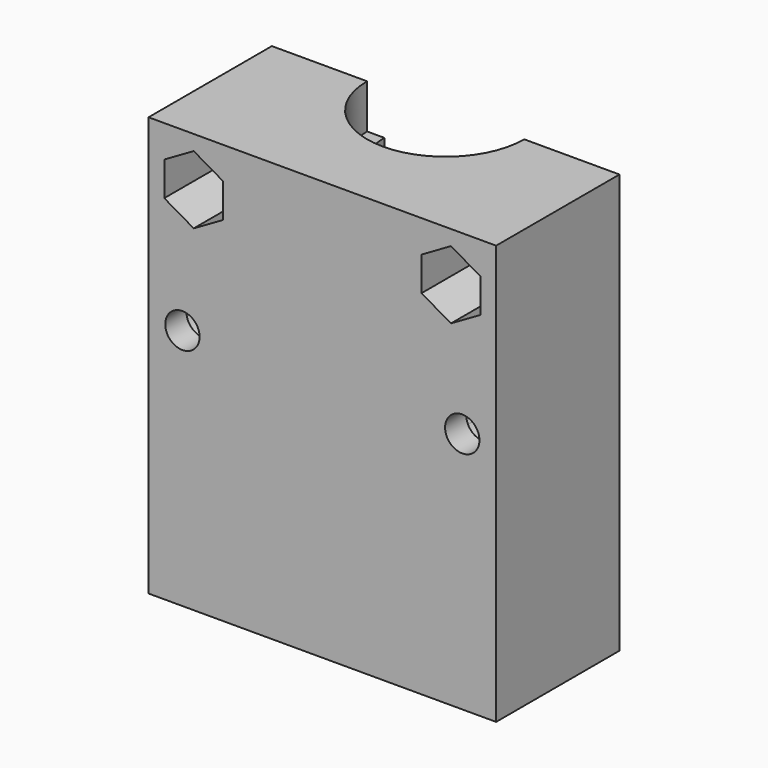
from build123d import *

# Parameters (mm, degrees)
F1_DEPTH  = 42.7
F3_DEPTH  = 4.5
F5_DEPTH  = 6
F6_R      = 8
F7_DEPTH  = 50
F8_R      = 11.7
F9_DEPTH  = 40
F10_R     = 1.75
F11_DEPTH = 25
F12_R     = 1.75
F13_DEPTH = 13
F14_R     = 1.75
F15_DEPTH = 13
F16_R     = 1.75
F17_DEPTH = 25
F18_R     = 1.75
F19_DEPTH = 7.5


with BuildPart() as f1:
    # F0 (on Top) → F1 (new body)
    with BuildSketch(Plane.XY):
        Polygon((0, 15.7), (0, 0), (35.4, 0), (35.4, 15.7), (23.2, 15.7), (7.2, 15.7), align=None)
    extrude(amount=F1_DEPTH)

    # F2 (on face) → F3 (cut)
    with BuildSketch(Plane.XY.offset(42.7)):
        with BuildLine():
            ThreePointArc((9.7, 15.7), (17.7, 7.7), (25.7, 15.7))
            Line((25.7, 15.7), (9.7, 15.7))
        make_face()
    extrude(amount=-F3_DEPTH, mode=Mode.SUBTRACT)

    # F4 (on face) → F5 (cut)
    with BuildSketch(Plane.XY.offset(38.2)):
        with BuildLine():
            ThreePointArc((11.45, 15.7), (17.7, 9.45), (23.95, 15.7))
            Line((23.95, 15.7), (11.45, 15.7))
        make_face()
    extrude(amount=-F5_DEPTH, mode=Mode.SUBTRACT)

    # F6 (on face) → F7 (cut)
    with BuildSketch(Plane.XY.offset(32.2)):
        with Locations((17.7, 15.7)):
            Circle(F6_R)
    extrude(amount=-F7_DEPTH, mode=Mode.SUBTRACT)

    # F8 (on face) → F9 (cut)
    with BuildSketch(Plane(origin=(0, 0, 32.2), x_dir=(1, 0, 0), z_dir=(0, 0, -1))):
        with Locations((17.7, -15.7)):
            Circle(F8_R)
    extrude(amount=F9_DEPTH, mode=Mode.SUBTRACT)

    # F10 (on face) → F11 (cut)
    with BuildSketch(Plane.XZ):
        with Locations((3.45, 24.7)):
            Circle(F10_R)
        with Locations((31.95, 24.7)):
            Circle(F10_R)
    extrude(amount=-F11_DEPTH, mode=Mode.SUBTRACT)

    # F12 (on face) → F13 (cut)
    with BuildSketch(Plane(origin=(0, 15.7, 0), x_dir=(-1, 0, 0), z_dir=(0, 1, 0))):
        with BuildLine():
            Line((-29.4, 23.1196519371), (-29.4, 26.2803480629))
            ThreePointArc((-29.4, 26.2803480629), (-34.95, 24.7), (-29.4, 23.1196519371))
        make_face()
        with Locations((-31.95, 24.7)):
            Circle(F12_R, mode=Mode.SUBTRACT)
        with BuildLine():
            ThreePointArc((-29.4, 23.1196519371), (-29.0646923907, 23.8784161637), (-28.95, 24.7))
            ThreePointArc((-28.95, 24.7), (-29.0646923907, 25.5215838363), (-29.4, 26.2803480629))
            Line((-29.4, 26.2803480629), (-29.4, 23.1196519371))
        make_face()
    extrude(amount=-F13_DEPTH, mode=Mode.SUBTRACT)

    # F14 (on face) → F15 (cut)
    with BuildSketch(Plane(origin=(0, 15.7, 0), x_dir=(-1, 0, 0), z_dir=(0, 1, 0))):
        with BuildLine():
            Line((-6, 23.1196519371), (-6, 26.2803480629))
            ThreePointArc((-6, 26.2803480629), (-6.45, 24.7), (-6, 23.1196519371))
        make_face()
        with BuildLine():
            ThreePointArc((-6, 23.1196519371), (-2.6284161637, 21.8146923907), (-0.45, 24.7))
            ThreePointArc((-0.45, 24.7), (-2.6284161637, 27.5853076093), (-6, 26.2803480629))
            Line((-6, 26.2803480629), (-6, 23.1196519371))
        make_face()
        with Locations((-3.45, 24.7)):
            Circle(F14_R, mode=Mode.SUBTRACT)
        with BuildLine():
            ThreePointArc((-6, 23.1196519371), (-2.6284161637, 21.8146923907), (-0.45, 24.7))
            ThreePointArc((-0.45, 24.7), (-2.6284161637, 27.5853076093), (-6, 26.2803480629))
            Line((-6, 26.2803480629), (-6, 23.1196519371))
        make_face()
        with Locations((-3.45, 24.7)):
            Circle(F14_R, mode=Mode.SUBTRACT)
    extrude(amount=-F15_DEPTH, mode=Mode.SUBTRACT)

    # F16 (on face) → F17 (cut)
    with BuildSketch(Plane(origin=(0, 15.7, 0), x_dir=(-1, 0, 0), z_dir=(0, 1, 0))):
        with Locations((-30.8, 37.7)):
            Circle(F16_R)
        with Locations((-4.6, 37.7)):
            Circle(F16_R)
    extrude(amount=-F17_DEPTH, mode=Mode.SUBTRACT)

    # F18 (on face) → F19 (cut)
    with BuildSketch(Plane.XZ):
        Polygon((7.6, 35.9679491924), (7.6, 39.4320508076), (4.6, 41.1641016151), (1.6, 39.4320508076), (1.6, 35.9679491924), (4.6, 34.2358983849), align=None)
        with Locations((4.6, 37.7)):
            Circle(F18_R, mode=Mode.SUBTRACT)
        Polygon((27.8, 39.4320508076), (27.8, 35.9679491924), (30.8, 34.2358983849), (33.8, 35.9679491924), (33.8, 39.4320508076), (30.8, 41.1641016151), align=None)
        with Locations((30.8, 37.7)):
            Circle(F18_R, mode=Mode.SUBTRACT)
    extrude(amount=-F19_DEPTH, mode=Mode.SUBTRACT)


solid = f1.part
